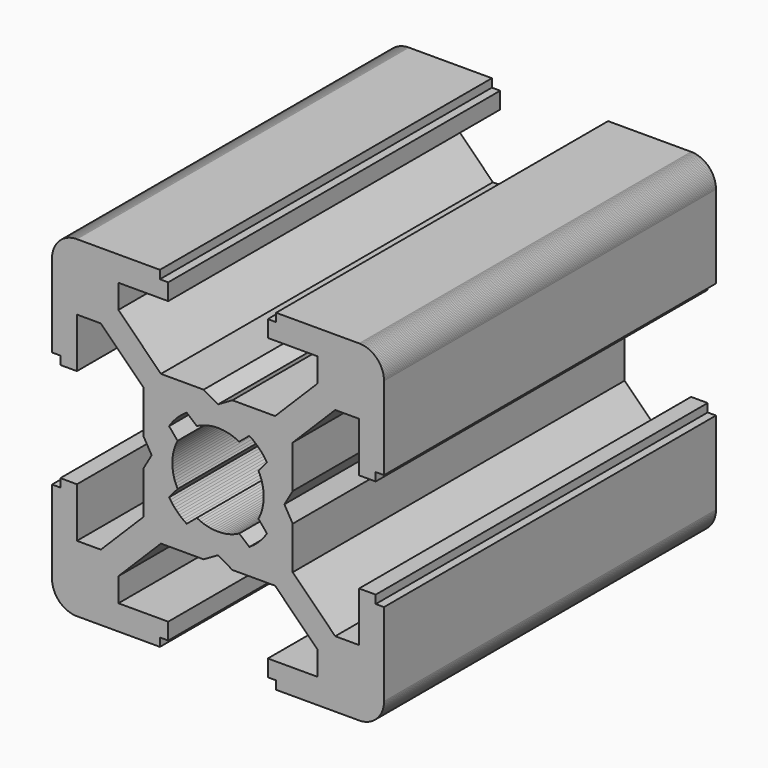
from build123d import *

# Parameters (mm, degrees)
F1_DEPTH = 25


with BuildPart() as f1:
    # F0 (on Front) → F1 (new body)
    with BuildSketch(Plane.XZ):
        Polygon((-10, -8.5), (-9.998489, -8.567297), (-9.993961, -8.634459), (-9.986424, -8.70135), (-9.975894, -8.767836), (-9.962392, -8.833781), (-9.945944, -8.899055), (-9.926585, -8.963526), (-9.904352, -9.027062), (-9.879292, -9.089538), (-9.851453, -9.150826), (-9.820893, -9.210803), (-9.787673, -9.269349), (-9.75186, -9.326345), (-9.713526, -9.381678), (-9.672748, -9.435235), (-9.629607, -9.486908), (-9.584192, -9.536594), (-9.536594, -9.584192), (-9.486908, -9.629607), (-9.435235, -9.672748), (-9.381678, -9.713526), (-9.326345, -9.75186), (-9.269349, -9.787673), (-9.210803, -9.820893), (-9.150826, -9.851453), (-9.089538, -9.879292), (-9.027062, -9.904352), (-8.963526, -9.926585), (-8.899055, -9.945944), (-8.833781, -9.962392), (-8.767836, -9.975894), (-8.70135, -9.986424), (-8.634459, -9.993961), (-8.567297, -9.998489), (-8.5, -10), (-3.5, -10), (-3.5, -9.5), (-3, -9.5), (-3, -8.5), (-6, -8.5), (-6, -7.06066), (-3.43934, -4.5), (-0.866025, -4.5), (0, -4), (0.866025, -4.5), (3.43934, -4.5), (6, -7.06066), (6, -8.5), (3, -8.5), (3, -9.5), (3.5, -9.5), (3.5, -10), (8.5, -10), (8.567297, -9.998489), (8.634459, -9.993961), (8.70135, -9.986424), (8.767836, -9.975894), (8.833781, -9.962392), (8.899055, -9.945944), (8.963526, -9.926585), (9.027062, -9.904352), (9.089538, -9.879292), (9.150826, -9.851453), (9.210803, -9.820893), (9.269349, -9.787673), (9.326345, -9.75186), (9.381678, -9.713526), (9.435235, -9.672748), (9.486908, -9.629607), (9.536594, -9.584192), (9.584192, -9.536594), (9.629607, -9.486908), (9.672748, -9.435235), (9.713526, -9.381678), (9.75186, -9.326345), (9.787673, -9.269349), (9.820893, -9.210803), (9.851453, -9.150826), (9.879292, -9.089538), (9.904352, -9.027062), (9.926585, -8.963526), (9.945944, -8.899055), (9.962392, -8.833781), (9.975894, -8.767836), (9.986424, -8.70135), (9.993961, -8.634459), (9.998489, -8.567297), (10, -8.5), (10, -3.5), (9.5, -3.5), (9.5, -3), (8.5, -3), (8.5, -6), (7.06066, -6), (4.5, -3.43934), (4.5, -0.866025), (4, 0), (4.5, 0.866025), (4.5, 3.43934), (7.06066, 6), (8.5, 6), (8.5, 3), (9.5, 3), (9.5, 3.5), (10, 3.5), (10, 8.5), (9.998489, 8.567297), (9.993961, 8.634459), (9.986424, 8.70135), (9.975894, 8.767836), (9.962392, 8.833781), (9.945944, 8.899055), (9.926585, 8.963526), (9.904352, 9.027062), (9.879292, 9.089538), (9.851453, 9.150826), (9.820893, 9.210803), (9.787673, 9.269349), (9.75186, 9.326345), (9.713526, 9.381678), (9.672748, 9.435235), (9.629607, 9.486908), (9.584192, 9.536594), (9.536594, 9.584192), (9.486908, 9.629607), (9.435235, 9.672748), (9.381678, 9.713526), (9.326345, 9.75186), (9.269349, 9.787673), (9.210803, 9.820893), (9.150826, 9.851453), (9.089538, 9.879292), (9.027062, 9.904352), (8.963526, 9.926585), (8.899055, 9.945944), (8.833781, 9.962392), (8.767836, 9.975894), (8.70135, 9.986424), (8.634459, 9.993961), (8.567297, 9.998489), (8.5, 10), (3.5, 10), (3.5, 9.5), (3, 9.5), (3, 8.5), (6, 8.5), (6, 7.06066), (3.43934, 4.5), (0.866025, 4.5), (0, 4), (-0.866025, 4.5), (-3.43934, 4.5), (-6, 7.06066), (-6, 8.5), (-3, 8.5), (-3, 9.5), (-3.5, 9.5), (-3.5, 10), (-8.5, 10), (-8.567297, 9.998489), (-8.634459, 9.993961), (-8.70135, 9.986424), (-8.767836, 9.975894), (-8.833781, 9.962392), (-8.899055, 9.945944), (-8.963526, 9.926585), (-9.027062, 9.904352), (-9.089538, 9.879292), (-9.150826, 9.851453), (-9.210803, 9.820893), (-9.269349, 9.787673), (-9.326345, 9.75186), (-9.381678, 9.713526), (-9.435235, 9.672748), (-9.486908, 9.629607), (-9.536594, 9.584192), (-9.584192, 9.536594), (-9.629607, 9.486908), (-9.672748, 9.435235), (-9.713526, 9.381678), (-9.75186, 9.326345), (-9.787673, 9.269349), (-9.820893, 9.210803), (-9.851453, 9.150826), (-9.879292, 9.089538), (-9.904352, 9.027062), (-9.926585, 8.963526), (-9.945944, 8.899055), (-9.962392, 8.833781), (-9.975894, 8.767836), (-9.986424, 8.70135), (-9.993961, 8.634459), (-9.998489, 8.567297), (-10, 8.5), (-10, 3.5), (-9.5, 3.5), (-9.5, 3), (-8.5, 3), (-8.5, 6), (-7.06066, 6), (-4.5, 3.43934), (-4.5, 0.866025), (-4, 0), (-4.5, -0.866025), (-4.5, -3.43934), (-7.06066, -6), (-8.5, -6), (-8.5, -3), (-9.5, -3), (-9.5, -3.5), (-10, -3.5), align=None)
        Polygon((-2.727834, -0.348454), (-2.742013, -0.209433), (-2.749112, -0.069871), (-2.749112, 0.069871), (-2.742013, 0.209433), (-2.727834, 0.348454), (-2.706611, 0.486575), (-2.678399, 0.623439), (-2.643271, 0.758694), (-2.601318, 0.89199), (-2.552647, 1.022982), (-2.497385, 1.151333), (-2.435674, 1.276711), (-2.947757, 1.886989), (-2.871411, 2.00125), (-2.790637, 2.112426), (-2.705562, 2.220345), (-2.616316, 2.324842), (-2.523037, 2.425755), (-2.425868, 2.522928), (-2.32496, 2.616212), (-2.220467, 2.705462), (-2.112551, 2.790543), (-2.001379, 2.871321), (-1.887121, 2.947673), (-1.276855, 2.435599), (-1.151465, 2.497324), (-1.023101, 2.552599), (-0.892095, 2.601282), (-0.758785, 2.643245), (-0.623514, 2.678382), (-0.486634, 2.706601), (-0.348496, 2.727829), (-0.209458, 2.742012), (-0.06988, 2.749112), (0.06988, 2.749112), (0.209458, 2.742012), (0.348496, 2.727829), (0.486634, 2.706601), (0.623514, 2.678382), (0.758785, 2.643245), (0.892095, 2.601282), (1.023101, 2.552599), (1.151465, 2.497324), (1.276855, 2.435599), (1.887121, 2.947673), (2.001379, 2.871321), (2.112551, 2.790543), (2.220467, 2.705462), (2.32496, 2.616212), (2.425868, 2.522928), (2.523037, 2.425755), (2.616316, 2.324842), (2.705562, 2.220345), (2.790637, 2.112426), (2.871411, 2.00125), (2.947757, 1.886989), (2.435674, 1.276711), (2.497385, 1.151333), (2.552647, 1.022982), (2.601318, 0.89199), (2.643271, 0.758694), (2.678399, 0.623439), (2.706611, 0.486575), (2.727834, 0.348454), (2.742013, 0.209433), (2.749112, 0.069871), (2.749112, -0.069871), (2.742013, -0.209433), (2.727834, -0.348454), (2.706611, -0.486575), (2.678399, -0.623439), (2.643271, -0.758694), (2.601318, -0.89199), (2.552647, -1.022982), (2.497385, -1.151333), (2.435674, -1.276711), (2.947757, -1.886989), (2.871411, -2.00125), (2.790637, -2.112426), (2.705562, -2.220345), (2.616316, -2.324842), (2.523037, -2.425755), (2.425868, -2.522928), (2.32496, -2.616212), (2.220467, -2.705462), (2.112551, -2.790543), (2.001379, -2.871321), (1.887121, -2.947673), (1.276855, -2.435599), (1.151465, -2.497324), (1.023101, -2.552599), (0.892095, -2.601282), (0.758785, -2.643245), (0.623514, -2.678382), (0.486634, -2.706601), (0.348496, -2.727829), (0.209458, -2.742012), (0.06988, -2.749112), (-0.06988, -2.749112), (-0.209458, -2.742012), (-0.348496, -2.727829), (-0.486634, -2.706601), (-0.623514, -2.678382), (-0.758785, -2.643245), (-0.892095, -2.601282), (-1.023101, -2.552599), (-1.151465, -2.497324), (-1.276855, -2.435599), (-1.887121, -2.947673), (-2.001379, -2.871321), (-2.112551, -2.790543), (-2.220467, -2.705462), (-2.32496, -2.616212), (-2.425868, -2.522928), (-2.523037, -2.425755), (-2.616316, -2.324842), (-2.705562, -2.220345), (-2.790637, -2.112426), (-2.871411, -2.00125), (-2.947757, -1.886989), (-2.435674, -1.276711), (-2.497385, -1.151333), (-2.552647, -1.022982), (-2.601318, -0.89199), (-2.643271, -0.758694), (-2.678399, -0.623439), (-2.706611, -0.486575), align=None, mode=Mode.SUBTRACT)
    extrude(amount=F1_DEPTH)


solid = f1.part
